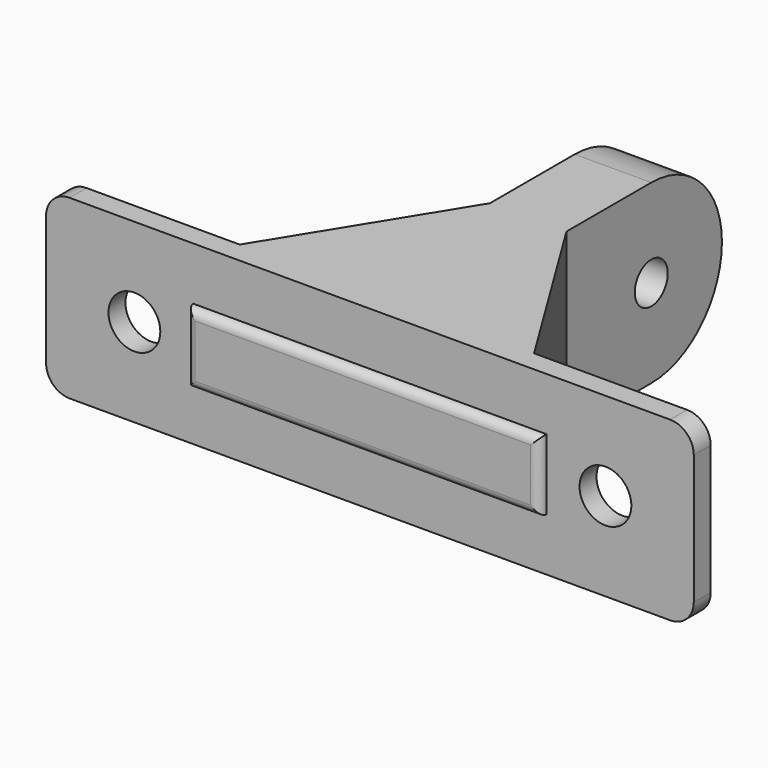
from build123d import *

# Parameters (mm, degrees)
SKETCH014_R          = 2.2
PAD013_DEPTH         = 1.8
SKETCH015_W          = 30
SKETCH015_H          = 6
PAD014_DEPTH         = 0.75
FILLET004_R          = 0.7499
SKETCH016_W          = 25
SKETCH016_H          = 15
SKETCH017_W          = 6.5
SKETCH017_H          = 15
LOFT_PLACEMENT_ANGLE = 180
PAD015_DEPTH         = 3.25
SKETCH019_R          = 1.75
POCKET003_DEPTH      = 6.5


with BuildPart() as fillet004:
    # Sketch014 → Pad013 (new body)
    with BuildSketch(Plane.XZ):
        with BuildLine():
            Line((-25.5, 7.5), (25.5, 7.5))
            ThreePointArc((27.5, 5.5), (26.914214, 6.914214), (25.5, 7.5))
            Line((27.5, 5.5), (27.5, -5.5))
            ThreePointArc((25.5, -7.5), (26.914214, -6.914214), (27.5, -5.5))
            Line((25.5, -7.5), (-25.5, -7.5))
            ThreePointArc((-27.5, -5.5), (-26.914214, -6.914214), (-25.5, -7.5))
            Line((-27.5, -5.5), (-27.5, 5.5))
            ThreePointArc((-25.5, 7.5), (-26.914214, 6.914214), (-27.5, 5.5))
        make_face()
        with Locations((-20, 0)):
            Circle(SKETCH014_R, mode=Mode.SUBTRACT)
        with Locations((20, 0)):
            Circle(SKETCH014_R, mode=Mode.SUBTRACT)
    extrude(amount=PAD013_DEPTH)

    # Sketch015 → Pad014 (new body)
    with BuildSketch(Plane.XZ.offset(1.8)):
        Rectangle(SKETCH015_W, SKETCH015_H)
    extrude(amount=PAD014_DEPTH)

    # Fillet004
    fillet004_edges = [fillet004.edges().sort_by_distance(p)[0] for p in [
        (-15, -2.55, 0),
        (0, -2.55, 3),
        (15, -2.55, 0),
        (0, -2.55, -3),
    ]]
    fillet(fillet004_edges, radius=FILLET004_R)


with BuildPart() as fusion001:
    # Sketch016 → Loft section 0
    with BuildSketch(Plane.XZ):
        Rectangle(SKETCH016_W, SKETCH016_H)
    # Sketch017 → Loft section 1
    with BuildSketch(Plane.XZ.offset(15)):
        Rectangle(SKETCH017_W, SKETCH017_H)
    loft(ruled=True)


with BuildPart() as fusion001_1:
    # Loft placement: moved
    add(fusion001.part.rotate(Axis((0, 0, 0), (0, 0, 1)), LOFT_PLACEMENT_ANGLE))

    # Fusion001: union Fillet004
    add(fillet004.part)


with BuildPart() as fusion002:
    # Sketch018 → Pad015 (new body, symmetric)
    with BuildSketch(Plane(origin=(0, 15, 0), x_dir=(0, 1, 0), z_dir=(1, 0, 0))):
        with BuildLine():
            Line((0, 7.5), (9, 7.5))
            ThreePointArc((9, -7.5), (16.5, 0), (9, 7.5))
            Line((9, -7.5), (0, -7.5))
            Line((0, -7.5), (0, 7.5))
        make_face()
    extrude(amount=PAD015_DEPTH, both=True)

    # Sketch019 → Pocket003 (cut)
    with BuildSketch(Plane(origin=(3.25, 15, 0), x_dir=(0, 1, 0), z_dir=(1, 0, 0))):
        with Locations((9, 0)):
            Circle(SKETCH019_R)
    extrude(amount=-POCKET003_DEPTH, mode=Mode.SUBTRACT)

    # Fusion002: union Fusion001
    add(fusion001_1.part)


solid = fusion002.part
